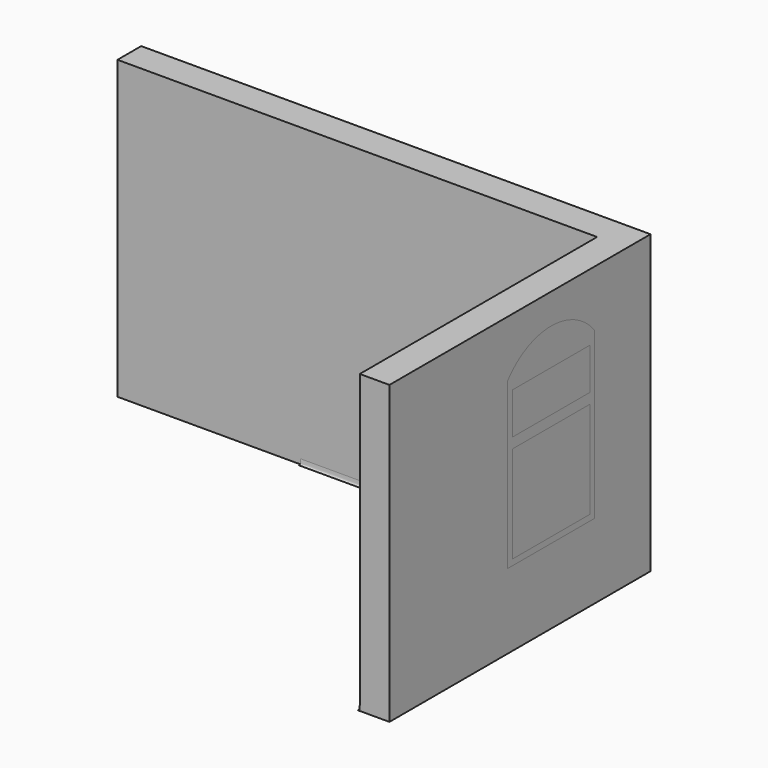
from build123d import *

# Parameters (mm, degrees)
F0_W     = 4850
F0_H     = 300
F1_DEPTH = 3000
F2_W     = 1100
F2_H     = 1673.7191037759
F2_W_2   = 980
F2_H_2   = 980
F2_H_3   = 420.3325510025
F3_DEPTH = 300
F4_DEPTH = 25
F5_DEPTH = 280
F6_START = -280
F6_DEPTH = 20
F8_DEPTH = 3000
F9_ANGLE = 90


with BuildPart() as f1:
    # F0 (on Top) → F1 (new body)
    with BuildSketch(Plane.XY):
        with Locations((-118.3822158854, 1342.0549451652)):
            Rectangle(F0_W, F0_H)
        Polygon((2606.6177841146, 1492.0549451652), (2306.6177841146, 1492.0549451652), (2306.6177841146, 1192.0549451652), (2306.6177841146, -1807.9450548348), (2606.6177841146, -1807.9450548348), align=None)
    extrude(amount=F1_DEPTH)

    # F2 (on face) → F3 (cut)
    with BuildSketch(Plane(origin=(2306.6177841146, 0, 0), x_dir=(0, -1, 0), z_dir=(-1, 0, 0))):
        with Locations((-237.0549451652, 1594.859551888)):
            Rectangle(F2_W, F2_H)
        with Locations((-237.0549451652, 1308)):
            Rectangle(F2_W_2, F2_H_2, mode=Mode.SUBTRACT)
        with Locations((-237.0549451652, 2113.4576201439)):
            Rectangle(F2_W_2, F2_H_3, mode=Mode.SUBTRACT)
        with BuildLine():
            ThreePointArc((312.9450548348, 2431.7191037759), (-237.0549451652, 2694.2833315194), (-787.0549451652, 2431.7191037759))
            Line((-787.0549451652, 2431.7191037759), (312.9450548348, 2431.7191037759))
        make_face()
    extrude(amount=-F3_DEPTH, mode=Mode.SUBTRACT)

    # F2 (on face) → F4 (join)
    with BuildSketch(Plane(origin=(2306.6177841146, 0, 0), x_dir=(0, -1, 0), z_dir=(-1, 0, 0))):
        Polygon((312.9450548348, 758), (-787.0549451652, 758), (-807.0549451652, 758), (-807.0549451652, 738), (332.9450548348, 738), (332.9450548348, 758), align=None)
    extrude(amount=F4_DEPTH)

    # F2 (on face) → F5 (cut)
    with BuildSketch(Plane(origin=(2306.6177841146, 0, 0), x_dir=(0, -1, 0), z_dir=(-1, 0, 0))):
        with Locations((-237.0549451652, 2113.4576201439)):
            Rectangle(F2_W_2, F2_H_3)
        with Locations((-237.0549451652, 1308)):
            Rectangle(F2_W_2, F2_H_2)
    extrude(amount=-F5_DEPTH, mode=Mode.SUBTRACT)



with BuildPart() as f6:
    # F2 (on face) → F6 (new body)
    with BuildSketch(Plane(origin=(2306.6177841146, 0, 0), x_dir=(0, -1, 0), z_dir=(-1, 0, 0)).offset(F6_START)):
        with Locations((-237.0549451652, 1594.859551888)):
            Rectangle(F2_W, F2_H)
        with Locations((-237.0549451652, 1308)):
            Rectangle(F2_W_2, F2_H_2, mode=Mode.SUBTRACT)
        with Locations((-237.0549451652, 2113.4576201439)):
            Rectangle(F2_W_2, F2_H_3, mode=Mode.SUBTRACT)
        with BuildLine():
            ThreePointArc((312.9450548348, 2431.7191037759), (-237.0549451652, 2694.2833315194), (-787.0549451652, 2431.7191037759))
            Line((-787.0549451652, 2431.7191037759), (312.9450548348, 2431.7191037759))
        make_face()
    extrude(amount=-F6_DEPTH)


with BuildPart() as f8:
    # F7 (on face) → F8 (new body)
    with BuildSketch(Plane.XZ.offset(-1192.0549451652)):
        with BuildLine():
            Line((2286.6177841146, 0), (2306.6177841146, 0))
            Line((2306.6177841146, 0), (2306.6177841146, 50))
            add(Edge.make_bspline(
                [(2286.6177841146, 0), (2314.8031234741, 0), (2299.951117448, 33.3333333333), (2306.6177841146, 50)],
                knots=[0, 0, 0, 0, 53.8516480713, 53.8516480713, 53.8516480713, 53.8516480713], degree=3))
        make_face()
    extrude(amount=F8_DEPTH)


with BuildPart() as f9_1:
    # F9: copy of F8
    add(f8.part.rotate(Axis((2306.6177841146, 1192.0549451652, 1500), (0, 0, -1)), F9_ANGLE))


with BuildPart() as f1_1:
    add(f1.part)

    add(f8.part)  # F10 merges F8

    add(f9_1.part)  # F10 merges F9_1
    # F10: F9_1 across face
    add(f9_1.part.mirror(Plane(origin=(-118.3822158854, 1192.0549451652, 1500), x_dir=(1, 0, 0), z_dir=(0, -1, 0))))


solid = Compound([f6.part, f1_1.part])
